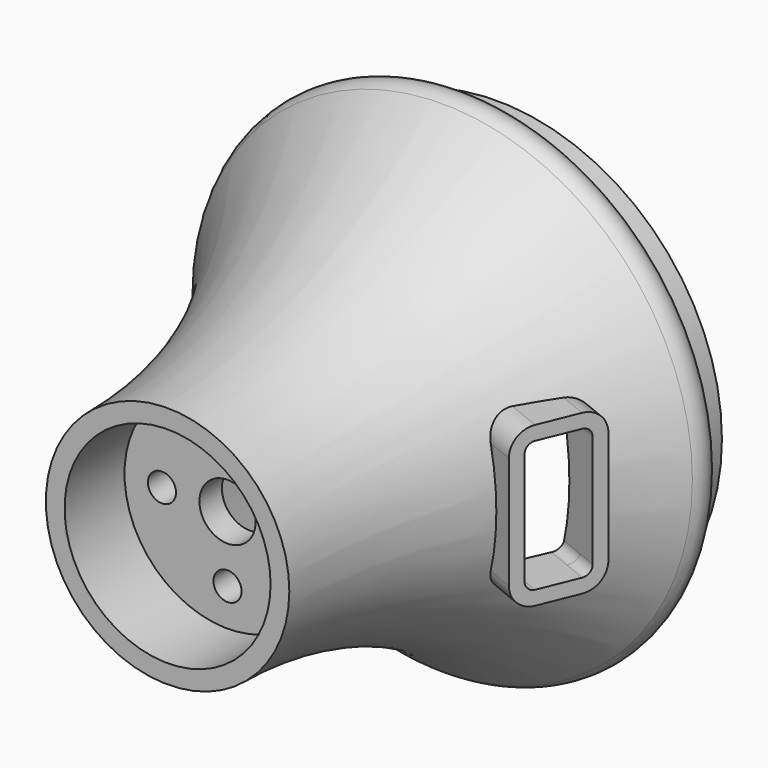
from build123d import *

# Parameters (mm, degrees)
F2_R     = 6
F3_DEPTH = 72.001
F2_R_2   = 3
F4_DEPTH = 72.001
F7_DEPTH = 12.5
F8_DEPTH = 8


with BuildPart() as f1:
    # F0 (on Top) → F1 (revolve)
    with BuildSketch(Plane.XY):
        with BuildLine():
            ThreePointArc((26, 0), (33.069705, 39.16163), (53.386308, 73.37931))
            ThreePointArc((53.386308, 73.37931), (54.003261, 77.66091), (50.364391, 80))
            Line((50.364391, 80), (48, 80))
            Line((48, 80), (48, 88))
            Line((48, 88), (40, 88))
            Line((40, 88), (40, 66))
            Line((40, 66), (22, 22))
            Line((22, 22), (0, 22))
            Line((0, 22), (0, 16))
            Line((0, 16), (22, 16))
            Line((22, 16), (22, 0))
            Line((22, 0), (26, 0))
        make_face()
    revolve(axis=Axis((0, 5.929412, 0), (0, -1, 0)))

    # F2 (on face) → F3 (cut, through all)
    with BuildSketch(Plane.XZ.offset(-16)):
        Circle(F2_R)
    extrude(amount=-F3_DEPTH, mode=Mode.SUBTRACT)

    # F2 (on face) → F4 (cut, through all)
    with BuildSketch(Plane.XZ.offset(-16)):
        with Locations((-14, 0)):
            Circle(F2_R_2)
        with Locations((0, 14)):
            Circle(F2_R_2)
        with Locations((14, 0)):
            Circle(F2_R_2)
        with Locations((0, -14)):
            Circle(F2_R_2)
    extrude(amount=-F4_DEPTH, mode=Mode.SUBTRACT)

    # F6 (on face) → F7 (cut, symmetric)
    with BuildSketch(Plane(origin=(11.136283, -4.555752, 0), x_dir=(0.378633, 0.925547, 0), z_dir=(0.925547, -0.378633, 0))):
        with BuildLine():
            ThreePointArc((69.990086, 12), (69.4043, 13.414214), (67.990086, 14))
            Line((67.990086, 14), (58.990086, 14))
            ThreePointArc((58.990086, 14), (57.575873, 13.414214), (56.990086, 12))
            Line((56.990086, 12), (56.990086, -12))
            ThreePointArc((56.990086, -12), (57.575873, -13.414214), (58.990086, -14))
            Line((58.990086, -14), (67.990086, -14))
            ThreePointArc((67.990086, -14), (69.4043, -13.414214), (69.990086, -12))
            Line((69.990086, -12), (69.990086, 12))
        make_face()
    extrude(amount=F7_DEPTH, both=True, mode=Mode.SUBTRACT)

    # F6 (on face) → F8 (join)
    with BuildSketch(Plane(origin=(11.136283, -4.555752, 0), x_dir=(0.378633, 0.925547, 0), z_dir=(0.925547, -0.378633, 0))):
        with BuildLine():
            ThreePointArc((72.990086, 12), (71.52562, 15.535534), (67.990086, 17))
            Line((67.990086, 17), (58.990086, 17))
            ThreePointArc((58.990086, 17), (55.454552, 15.535534), (53.990086, 12))
            Line((53.990086, 12), (53.990086, -12))
            ThreePointArc((53.990086, -12), (55.454552, -15.535534), (58.990086, -17))
            Line((58.990086, -17), (67.990086, -17))
            ThreePointArc((67.990086, -17), (71.52562, -15.535534), (72.990086, -12))
            Line((72.990086, -12), (72.990086, 12))
        make_face()
        with BuildLine():
            Line((58.990086, 14), (67.990086, 14))
            ThreePointArc((67.990086, 14), (69.4043, 13.414214), (69.990086, 12))
            Line((69.990086, 12), (69.990086, -12))
            ThreePointArc((69.990086, -12), (69.4043, -13.414214), (67.990086, -14))
            Line((67.990086, -14), (58.990086, -14))
            ThreePointArc((58.990086, -14), (57.575873, -13.414214), (56.990086, -12))
            Line((56.990086, -12), (56.990086, 12))
            ThreePointArc((56.990086, 12), (57.575873, 13.414214), (58.990086, 14))
        make_face(mode=Mode.SUBTRACT)
    extrude(amount=F8_DEPTH)


solid = f1.part
